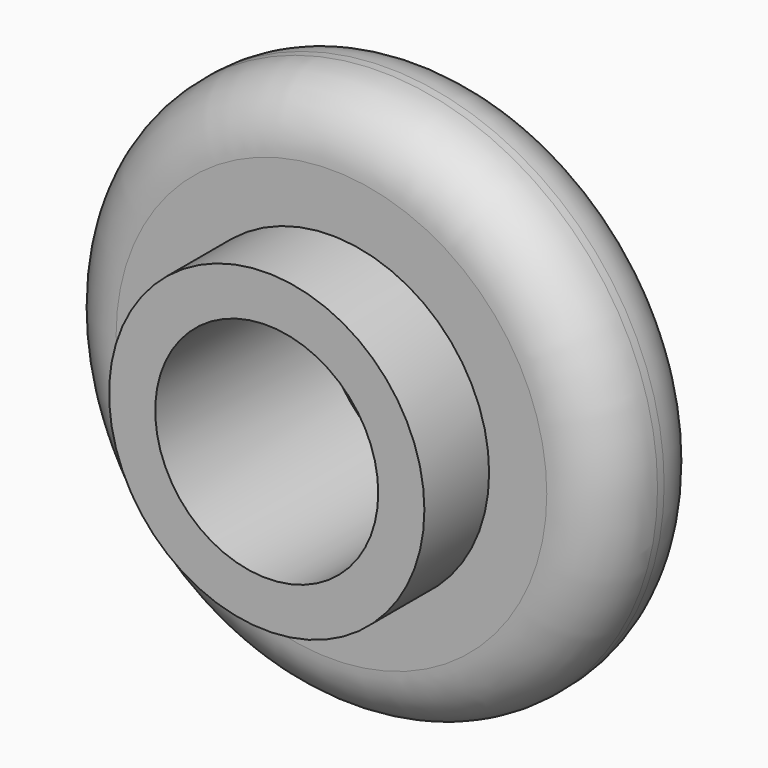
from build123d import *

# Parameters (mm, degrees)
F0_R     = 9
F0_R_2   = 5.125
F1_DEPTH = 4.27
F0_R_3   = 3.625
F2_DEPTH = 6.9
F3_R     = 2


with BuildPart() as f1:
    # F0 (on Front) → F1 (new body)
    with BuildSketch(Plane.XZ):
        Circle(F0_R)
        Circle(F0_R_2, mode=Mode.SUBTRACT)
    extrude(amount=F1_DEPTH)

    # F0 (on Front) → F2 (join)
    with BuildSketch(Plane.XZ):
        Circle(F0_R_2)
        Circle(F0_R_3, mode=Mode.SUBTRACT)
    extrude(amount=F2_DEPTH)

    # F3
    f3_edges = [f1.edges().sort_by_distance(p)[0] for p in [
        (-9, -4.27, 0),
        (-9, 0, 0),
    ]]
    fillet(f3_edges, radius=F3_R)


solid = f1.part
